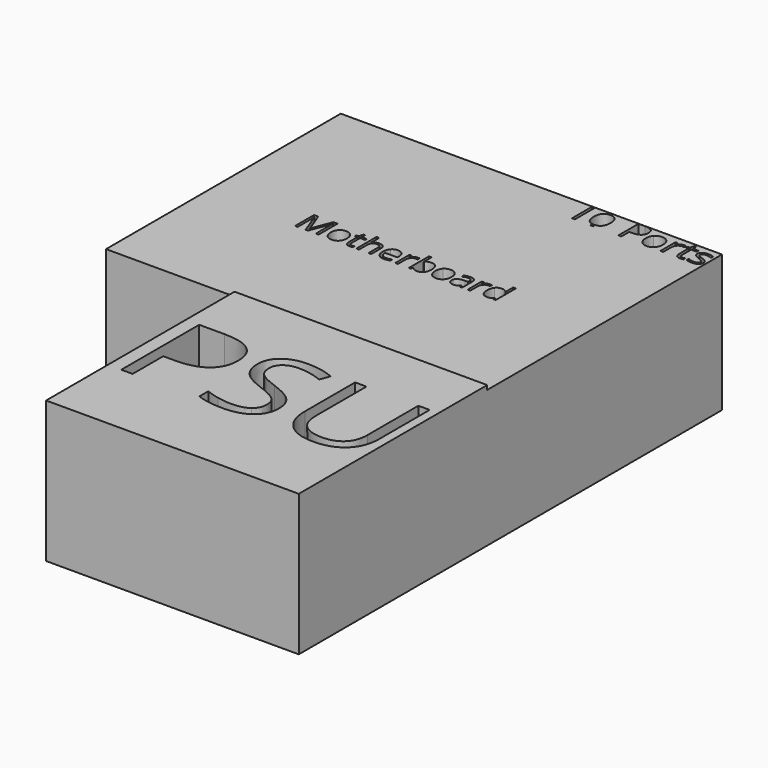
from build123d import *

# Parameters (mm, degrees)
F1_W     = 149.86
F1_H     = 139.7
F2_DEPTH = 83.82
F3_DEPTH = 81.28


with BuildPart() as f2:
    # F1 (on Top) → F2 (new body)
    with BuildSketch(Plane.XY):
        with Locations((38.1, -156.845)):
            Rectangle(F1_W, F1_H)
        with BuildLine():
            add(Edge.make_bspline(
                [(-13.9194527363, -123.1223521496), (7.7147761194, -123.1223521496), (7.7147761194, -139.9419541397)],
                knots=[0, 0, 0, 1, 1, 1], degree=2))
            add(Edge.make_bspline(
                [(7.7147761194, -139.9419541397), (7.7147761194, -148.7119043884), (1.7312437811, -153.4317551347)],
                knots=[0, 0, 0, 1, 1, 1], degree=2))
            add(Edge.make_bspline(
                [(1.7312437811, -153.4317551347), (-4.2522885572, -158.151605881), (-15.3853233831, -158.151605881)],
                knots=[0, 0, 0, 1, 1, 1], degree=2))
            Line((-15.3853233831, -158.151605881), (-22.1839303483, -158.151605881))
            Line((-22.1839303483, -158.151605881), (-22.1839303483, -180.8599640899))
            Line((-22.1839303483, -180.8599640899), (-28.894079602, -180.8599640899))
            Line((-28.894079602, -180.8599640899), (-28.894079602, -123.1223521496))
            Line((-28.894079602, -123.1223521496), (-13.9194527363, -123.1223521496))
        make_face(mode=Mode.SUBTRACT)
        with BuildLine():
            add(Edge.make_bspline(
                [(48.9613432836, -155.8643421994), (52.3732835821, -159.57956608), (52.3732835821, -165.4935959307)],
                knots=[0, 0, 0, 1, 1, 1], degree=2))
            add(Edge.make_bspline(
                [(52.3732835821, -165.4935959307), (52.3732835821, -173.1135959307), (46.8446766169, -177.3848397118)],
                knots=[0, 0, 0, 1, 1, 1], degree=2))
            add(Edge.make_bspline(
                [(46.8446766169, -177.3848397118), (41.3160696517, -181.6560834929), (31.8384577114, -181.6560834929)],
                knots=[0, 0, 0, 1, 1, 1], degree=2))
            add(Edge.make_bspline(
                [(31.8384577114, -181.6560834929), (21.5773631841, -181.6560834929), (16.0424378109, -179.0023521496)],
                knots=[0, 0, 0, 1, 1, 1], degree=2))
            Line((16.0424378109, -179.0023521496), (16.0424378109, -172.5323023984))
            add(Edge.make_bspline(
                [(16.0424378109, -172.5323023984), (19.6060199005, -174.023446677), (23.7888059701, -174.8953869755)],
                knots=[0, 0, 0, 1, 1, 1], degree=2))
            add(Edge.make_bspline(
                [(23.7888059701, -174.8953869755), (27.9715920398, -175.767327274), (32.0785572139, -175.767327274)],
                knots=[0, 0, 0, 1, 1, 1], degree=2))
            add(Edge.make_bspline(
                [(32.0785572139, -175.767327274), (38.7887064677, -175.767327274), (42.1880099502, -173.221008866)],
                knots=[0, 0, 0, 1, 1, 1], degree=2))
            add(Edge.make_bspline(
                [(42.1880099502, -173.221008866), (45.5873134328, -170.6746904581), (45.5873134328, -166.1254367267)],
                knots=[0, 0, 0, 1, 1, 1], degree=2))
            add(Edge.make_bspline(
                [(45.5873134328, -166.1254367267), (45.5873134328, -163.1305113536), (44.3804975124, -161.2160337417)],
                knots=[0, 0, 0, 1, 1, 1], degree=2))
            add(Edge.make_bspline(
                [(44.3804975124, -161.2160337417), (43.173681592, -159.3015561297), (40.3493532338, -157.6777252839)],
                knots=[0, 0, 0, 1, 1, 1], degree=2))
            add(Edge.make_bspline(
                [(40.3493532338, -157.6777252839), (37.5250248756, -156.0538944382), (31.7626368159, -154.0067302591)],
                knots=[0, 0, 0, 1, 1, 1], degree=2))
            add(Edge.make_bspline(
                [(31.7626368159, -154.0067302591), (23.7129850746, -151.1255362292), (20.2568159204, -147.1765312541)],
                knots=[0, 0, 0, 1, 1, 1], degree=2))
            add(Edge.make_bspline(
                [(20.2568159204, -147.1765312541), (16.8006467662, -143.227526279), (16.8006467662, -136.871207871)],
                knots=[0, 0, 0, 1, 1, 1], degree=2))
            add(Edge.make_bspline(
                [(16.8006467662, -136.871207871), (16.8006467662, -130.198969065), (21.8111442786, -126.2499640899)],
                knots=[0, 0, 0, 1, 1, 1], degree=2))
            add(Edge.make_bspline(
                [(21.8111442786, -126.2499640899), (26.821641791, -122.3009591148), (35.086119403, -122.3009591148)],
                knots=[0, 0, 0, 1, 1, 1], degree=2))
            add(Edge.make_bspline(
                [(35.086119403, -122.3009591148), (43.6917910448, -122.3009591148), (50.9200497512, -125.4601630949)],
                knots=[0, 0, 0, 1, 1, 1], degree=2))
            Line((50.9200497512, -125.4601630949), (48.8223383085, -131.2983720501))
            add(Edge.make_bspline(
                [(48.8223383085, -131.2983720501), (41.6699004975, -128.303446677), (34.921840796, -128.303446677)],
                knots=[0, 0, 0, 1, 1, 1], degree=2))
            add(Edge.make_bspline(
                [(34.921840796, -128.303446677), (29.5891044776, -128.303446677), (26.5878606965, -130.5907103586)],
                knots=[0, 0, 0, 1, 1, 1], degree=2))
            add(Edge.make_bspline(
                [(26.5878606965, -130.5907103586), (23.5866169154, -132.8779740402), (23.5866169154, -136.9470287665)],
                knots=[0, 0, 0, 1, 1, 1], degree=2))
            add(Edge.make_bspline(
                [(23.5866169154, -136.9470287665), (23.5866169154, -139.9419541397), (24.6923383085, -141.8627501596)],
                knots=[0, 0, 0, 1, 1, 1], degree=2))
            add(Edge.make_bspline(
                [(24.6923383085, -141.8627501596), (25.7980597015, -143.7835461795), (28.4265174129, -145.3821033934)],
                knots=[0, 0, 0, 1, 1, 1], degree=2))
            add(Edge.make_bspline(
                [(28.4265174129, -145.3821033934), (31.0549751244, -146.9806606073), (36.4635323383, -148.9140934431)],
                knots=[0, 0, 0, 1, 1, 1], degree=2))
            add(Edge.make_bspline(
                [(36.4635323383, -148.9140934431), (45.5494029851, -152.1491183188), (48.9613432836, -155.8643421994)],
                knots=[0, 0, 0, 1, 1, 1], degree=2))
        make_face(mode=Mode.SUBTRACT)
        with BuildLine():
            Line((101.0755721393, -123.1223521496), (107.785721393, -123.1223521496))
            Line((107.785721393, -123.1223521496), (107.785721393, -160.4767800103))
            add(Edge.make_bspline(
                [(107.785721393, -160.4767800103), (107.785721393, -170.3587700601), (101.8211442786, -176.0074267765)],
                knots=[0, 0, 0, 1, 1, 1], degree=2))
            add(Edge.make_bspline(
                [(101.8211442786, -176.0074267765), (95.8565671642, -181.6560834929), (85.4311940299, -181.6560834929)],
                knots=[0, 0, 0, 1, 1, 1], degree=2))
            add(Edge.make_bspline(
                [(85.4311940299, -181.6560834929), (75.0058208955, -181.6560834929), (69.3002985075, -175.9631979208)],
                knots=[0, 0, 0, 1, 1, 1], degree=2))
            add(Edge.make_bspline(
                [(69.3002985075, -175.9631979208), (63.5947761194, -170.2703123486), (63.5947761194, -160.3251382193)],
                knots=[0, 0, 0, 1, 1, 1], degree=2))
            Line((63.5947761194, -160.3251382193), (63.5947761194, -123.1223521496))
            Line((63.5947761194, -123.1223521496), (70.3175621891, -123.1223521496))
            Line((70.3175621891, -123.1223521496), (70.3175621891, -160.7927004083))
            add(Edge.make_bspline(
                [(70.3175621891, -160.7927004083), (70.3175621891, -168.0209591148), (74.2665671642, -171.8941431944)],
                knots=[0, 0, 0, 1, 1, 1], degree=2))
            add(Edge.make_bspline(
                [(74.2665671642, -171.8941431944), (78.2155721393, -175.767327274), (85.8734825871, -175.767327274)],
                knots=[0, 0, 0, 1, 1, 1], degree=2))
            add(Edge.make_bspline(
                [(85.8734825871, -175.767327274), (93.1775621891, -175.767327274), (97.1265671642, -171.8751879705)],
                knots=[0, 0, 0, 1, 1, 1], degree=2))
            add(Edge.make_bspline(
                [(97.1265671642, -171.8751879705), (101.0755721393, -167.983048667), (101.0755721393, -160.7168795128)],
                knots=[0, 0, 0, 1, 1, 1], degree=2))
            Line((101.0755721393, -160.7168795128), (101.0755721393, -123.1223521496))
        make_face(mode=Mode.SUBTRACT)
    extrude(amount=F2_DEPTH)

    # F0 (on Top) → F3 (join)
    with BuildSketch(Plane.XY):
        with BuildLine():
            Line((34.1019706592, 86.995), (-113.03, 86.995))
            Line((-113.03, 86.995), (-113.03, -86.995))
            Line((-113.03, -86.995), (113.03, -86.995))
            Line((113.03, -86.995), (113.03, 71.963575004))
            Line((113.03, 71.963575004), (109.0950362938, 71.963575004))
            add(Edge.make_bspline(
                [(109.0950362938, 71.963575004), (108.2880313485, 71.7580672404), (107.2529484228, 71.7580672404)],
                knots=[0.5072784088, 0.5072784088, 0.5072784088, 1, 1, 1], degree=2))
            add(Edge.make_bspline(
                [(107.2529484228, 71.7580672404), (106.0532331301, 71.7580672404), (105.138945287, 71.963575004)],
                knots=[0, 0, 0, 0.5400617249, 0.5400617249, 0.5400617249], degree=2))
            Line((105.138945287, 71.963575004), (101.9664084184, 71.963575004))
            add(Edge.make_bspline(
                [(101.9664084184, 71.963575004), (101.742886509, 71.8976161883), (101.4302284536, 71.8461419962)],
                knots=[0.4155624782, 0.4155624782, 0.4155624782, 1, 1, 1], degree=2))
            add(Edge.make_bspline(
                [(101.4302284536, 71.8461419962), (100.8952558626, 71.7580672404), (100.4646681674, 71.7580672404)],
                knots=[0, 0, 0, 1, 1, 1], degree=2))
            add(Edge.make_bspline(
                [(100.4646681674, 71.7580672404), (99.6700950527, 71.7580672404), (99.0704304474, 71.963575004)],
                knots=[0, 0, 0, 0.245299653, 0.245299653, 0.245299653], degree=2))
            Line((99.0704304474, 71.963575004), (90.2708306864, 71.963575004))
            Line((90.2708306864, 71.963575004), (88.5778381576, 71.963575004))
            Line((88.5778381576, 71.963575004), (82.0678466769, 71.963575004))
            add(Edge.make_bspline(
                [(82.0678466769, 71.963575004), (81.3206321924, 71.7580672404), (80.4325542568, 71.7580672404)],
                knots=[0.6340763655, 0.6340763655, 0.6340763655, 1, 1, 1], degree=2))
            add(Edge.make_bspline(
                [(80.4325542568, 71.7580672404), (79.6221738829, 71.7580672404), (78.9107416915, 71.963575004)],
                knots=[0, 0, 0, 0.5400617249, 0.5400617249, 0.5400617249], degree=2))
            Line((78.9107416915, 71.963575004), (65.3848191208, 71.963575004))
            Line((65.3848191208, 71.963575004), (63.6526822561, 71.963575004))
            Line((63.6526822561, 71.963575004), (49.9641525445, 71.963575004))
            add(Edge.make_bspline(
                [(49.9641525445, 71.963575004), (49.0860604893, 71.7580672404), (48.0667125011, 71.7580672404)],
                knots=[0.6833950988, 0.6833950988, 0.6833950988, 1, 1, 1], degree=2))
            add(Edge.make_bspline(
                [(48.0667125011, 71.7580672404), (47.0154028683, 71.7580672404), (46.1173504422, 71.963575004)],
                knots=[0, 0, 0, 0.319412416, 0.319412416, 0.319412416], degree=2))
            Line((46.1173504422, 71.963575004), (37.8826611041, 71.963575004))
            Line((37.8826611041, 71.963575004), (36.1505242393, 71.963575004))
            Line((36.1505242393, 71.963575004), (34.1019706592, 71.963575004))
            Line((34.1019706592, 71.963575004), (34.1019706592, 86.995))
        make_face()
        with BuildLine():
            Line((-51.6299568796, -14.1504098793), (-52.9442744639, -14.1504098793))
            Line((-52.9442744639, -14.1504098793), (-57.7040694537, -1.7135261963))
            Line((-57.7040694537, -1.7135261963), (-57.7808403406, -1.7135261963))
            add(Edge.make_bspline(
                [(-57.7808403406, -1.7135261963), (-57.6457235796, -3.1905980609), (-57.6457235796, -5.2265619823)],
                knots=[0, 0, 0, 1, 1, 1], degree=2))
            Line((-57.6457235796, -5.2265619823), (-57.6457235796, -14.1504098793))
            Line((-57.6457235796, -14.1504098793), (-59.1535037989, -14.1504098793))
            Line((-59.1535037989, -14.1504098793), (-59.1535037989, -0.1197625836))
            Line((-59.1535037989, -0.1197625836), (-56.6968354171, -0.1197625836))
            Line((-56.6968354171, -0.1197625836), (-52.2533364815, -11.6937414975))
            Line((-52.2533364815, -11.6937414975), (-52.1765655946, -11.6937414975))
            Line((-52.1765655946, -11.6937414975), (-47.6962166332, -0.1197625836))
            Line((-47.6962166332, -0.1197625836), (-45.2579732642, -0.1197625836))
            Line((-45.2579732642, -0.1197625836), (-45.2579732642, -14.1504098793))
            Line((-45.2579732642, -14.1504098793), (-46.8885869027, -14.1504098793))
            Line((-46.8885869027, -14.1504098793), (-46.8885869027, -5.1098702342))
            add(Edge.make_bspline(
                [(-46.8885869027, -5.1098702342), (-46.8885869027, -3.5560274827), (-46.7534701417, -1.7319512092)],
                knots=[0, 0, 0, 1, 1, 1], degree=2))
            Line((-46.7534701417, -1.7319512092), (-46.8302410286, -1.7319512092))
            Line((-46.8302410286, -1.7319512092), (-51.6299568796, -14.1504098793))
        make_face(mode=Mode.SUBTRACT)
        with BuildLine():
            add(Edge.make_bspline(
                [(-33.8728507322, -4.9087305104), (-32.5723519076, -6.3781252863), (-32.5723519076, -8.8808562003)],
                knots=[0, 0, 0, 1, 1, 1], degree=2))
            add(Edge.make_bspline(
                [(-32.5723519076, -8.8808562003), (-32.5723519076, -11.4542163303), (-33.8667090612, -12.8990444223)],
                knots=[0, 0, 0, 1, 1, 1], degree=2))
            add(Edge.make_bspline(
                [(-33.8667090612, -12.8990444223), (-35.1610662149, -14.3438725144), (-37.44576781, -14.3438725144)],
                knots=[0, 0, 0, 1, 1, 1], degree=2))
            add(Edge.make_bspline(
                [(-37.44576781, -14.3438725144), (-38.8583521296, -14.3438725144), (-39.9515695595, -13.6805720513)],
                knots=[0, 0, 0, 1, 1, 1], degree=2))
            add(Edge.make_bspline(
                [(-39.9515695595, -13.6805720513), (-41.0447869894, -13.0172715882), (-41.640529072, -11.7797248909)],
                knots=[0, 0, 0, 1, 1, 1], degree=2))
            add(Edge.make_bspline(
                [(-41.640529072, -11.7797248909), (-42.2362711546, -10.5421781935), (-42.2362711546, -8.8808562003)],
                knots=[0, 0, 0, 1, 1, 1], degree=2))
            add(Edge.make_bspline(
                [(-42.2362711546, -8.8808562003), (-42.2362711546, -6.3105669058), (-40.9495910896, -4.8749513202)],
                knots=[0, 0, 0, 1, 1, 1], degree=2))
            add(Edge.make_bspline(
                [(-40.9495910896, -4.8749513202), (-39.6629110246, -3.4393357346), (-37.3782094295, -3.4393357346)],
                knots=[0, 0, 0, 1, 1, 1], degree=2))
            add(Edge.make_bspline(
                [(-37.3782094295, -3.4393357346), (-35.1733495568, -3.4393357346), (-33.8728507322, -4.9087305104)],
                knots=[0, 0, 0, 1, 1, 1], degree=2))
        make_face(mode=Mode.SUBTRACT)
        with BuildLine():
            add(Edge.make_bspline(
                [(-27.6190942827, -12.5182608232), (-27.1676814675, -13.0264840946), (-26.3815475854, -13.0264840946)],
                knots=[0, 0, 0, 1, 1, 1], degree=2))
            add(Edge.make_bspline(
                [(-26.3815475854, -13.0264840946), (-25.9577722895, -13.0264840946), (-25.5647053484, -12.9650673851)],
                knots=[0, 0, 0, 1, 1, 1], degree=2))
            add(Edge.make_bspline(
                [(-25.5647053484, -12.9650673851), (-25.1716384073, -12.9036506756), (-24.9413257465, -12.8360922951)],
                knots=[0, 0, 0, 1, 1, 1], degree=2))
            Line((-24.9413257465, -12.8360922951), (-24.9413257465, -14.0552139795))
            add(Edge.make_bspline(
                [(-24.9413257465, -14.0552139795), (-25.1992759266, -14.1780473986), (-25.7028929449, -14.2609599565)],
                knots=[0, 0, 0, 1, 1, 1], degree=2))
            add(Edge.make_bspline(
                [(-25.7028929449, -14.2609599565), (-26.2065099632, -14.3438725144), (-26.6118602462, -14.3438725144)],
                knots=[0, 0, 0, 1, 1, 1], degree=2))
            add(Edge.make_bspline(
                [(-26.6118602462, -14.3438725144), (-29.6611998751, -14.3438725144), (-29.6611998751, -11.1287077697)],
                knots=[0, 0, 0, 1, 1, 1], degree=2))
            Line((-29.6611998751, -11.1287077697), (-29.6611998751, -4.870345067))
            Line((-29.6611998751, -4.870345067), (-31.1689800944, -4.870345067))
            Line((-31.1689800944, -4.870345067), (-31.1689800944, -4.1026361977))
            Line((-31.1689800944, -4.1026361977), (-29.6611998751, -3.4393357346))
            Line((-29.6611998751, -3.4393357346), (-28.9917577411, -1.1945550007))
            Line((-28.9917577411, -1.1945550007), (-28.0705070979, -1.1945550007))
            Line((-28.0705070979, -1.1945550007), (-28.0705070979, -3.6327983696))
            Line((-28.0705070979, -3.6327983696), (-25.0180966334, -3.6327983696))
            Line((-25.0180966334, -3.6327983696), (-25.0180966334, -4.870345067))
            Line((-25.0180966334, -4.870345067), (-28.0705070979, -4.870345067))
            Line((-28.0705070979, -4.870345067), (-28.0705070979, -11.0611493892))
            add(Edge.make_bspline(
                [(-28.0705070979, -11.0611493892), (-28.0705070979, -12.0100375517), (-27.6190942827, -12.5182608232)],
                knots=[0, 0, 0, 1, 1, 1], degree=2))
        make_face(mode=Mode.SUBTRACT)
        with BuildLine():
            Line((-14.0490723086, -14.1504098793), (-15.6428359213, -14.1504098793))
            Line((-15.6428359213, -14.1504098793), (-15.6428359213, -7.3454384617))
            add(Edge.make_bspline(
                [(-15.6428359213, -7.3454384617), (-15.6428359213, -6.0618292322), (-16.2278300797, -5.4277017061)],
                knots=[0, 0, 0, 1, 1, 1], degree=2))
            add(Edge.make_bspline(
                [(-16.2278300797, -5.4277017061), (-16.8128242381, -4.79357418), (-18.0626542774, -4.79357418)],
                knots=[0, 0, 0, 1, 1, 1], degree=2))
            add(Edge.make_bspline(
                [(-18.0626542774, -4.79357418), (-19.7209054351, -4.79357418), (-20.4840080512, -5.6963998104)],
                knots=[0, 0, 0, 1, 1, 1], degree=2))
            add(Edge.make_bspline(
                [(-20.4840080512, -5.6963998104), (-21.2471106673, -6.5992254407), (-21.2471106673, -8.6505435395)],
                knots=[0, 0, 0, 1, 1, 1], degree=2))
            Line((-21.2471106673, -8.6505435395), (-21.2471106673, -14.1504098793))
            Line((-21.2471106673, -14.1504098793), (-22.84087428, -14.1504098793))
            Line((-22.84087428, -14.1504098793), (-22.84087428, 0.7830630467))
            Line((-22.84087428, 0.7830630467), (-21.2471106673, 0.7830630467))
            Line((-21.2471106673, 0.7830630467), (-21.2471106673, -3.7372067759))
            add(Edge.make_bspline(
                [(-21.2471106673, -3.7372067759), (-21.2471106673, -4.5540490128), (-21.3238815543, -5.0914452213)],
                knots=[0, 0, 0, 1, 1, 1], degree=2))
            Line((-21.3238815543, -5.0914452213), (-21.2286856545, -5.0914452213))
            add(Edge.make_bspline(
                [(-21.2286856545, -5.0914452213), (-20.7588478264, -4.3329488584), (-19.8898013864, -3.8968902207)],
                knots=[0, 0, 0, 1, 1, 1], degree=2))
            add(Edge.make_bspline(
                [(-19.8898013864, -3.8968902207), (-19.0207549463, -3.4608315829), (-17.9091125035, -3.4608315829)],
                knots=[0, 0, 0, 1, 1, 1], degree=2))
            add(Edge.make_bspline(
                [(-17.9091125035, -3.4608315829), (-15.9806278238, -3.4608315829), (-15.0148500662, -4.3774759729)],
                knots=[0, 0, 0, 1, 1, 1], degree=2))
            add(Edge.make_bspline(
                [(-15.0148500662, -4.3774759729), (-14.0490723086, -5.2941203628), (-14.0490723086, -7.2901634231)],
                knots=[0, 0, 0, 1, 1, 1], degree=2))
            Line((-14.0490723086, -7.2901634231), (-14.0490723086, -14.1504098793))
        make_face(mode=Mode.SUBTRACT)
        with BuildLine():
            add(Edge.make_bspline(
                [(-4.5171989871, -14.1841890696), (-5.269553679, -14.3438725144), (-6.3351335896, -14.3438725144)],
                knots=[0, 0, 0, 1, 1, 1], degree=2))
            add(Edge.make_bspline(
                [(-6.3351335896, -14.3438725144), (-8.6658977169, -14.3438725144), (-10.0155299092, -12.9220756884)],
                knots=[0, 0, 0, 1, 1, 1], degree=2))
            add(Edge.make_bspline(
                [(-10.0155299092, -12.9220756884), (-11.3651621014, -11.5002788624), (-11.3651621014, -8.9791229356)],
                knots=[0, 0, 0, 1, 1, 1], degree=2))
            add(Edge.make_bspline(
                [(-11.3651621014, -8.9791229356), (-11.3651621014, -6.4334003249), (-10.1122612267, -4.9363680297)],
                knots=[0, 0, 0, 1, 1, 1], degree=2))
            add(Edge.make_bspline(
                [(-10.1122612267, -4.9363680297), (-8.859360352, -3.4393357346), (-6.7466255436, -3.4393357346)],
                knots=[0, 0, 0, 1, 1, 1], degree=2))
            add(Edge.make_bspline(
                [(-6.7466255436, -3.4393357346), (-4.7720783317, -3.4393357346), (-3.6205150277, -4.7398345592)],
                knots=[0, 0, 0, 1, 1, 1], degree=2))
            add(Edge.make_bspline(
                [(-3.6205150277, -4.7398345592), (-2.4689517237, -6.0403333838), (-2.4689517237, -8.1714932051)],
                knots=[0, 0, 0, 1, 1, 1], degree=2))
            Line((-2.4689517237, -8.1714932051), (-2.4689517237, -9.1787272416))
            Line((-2.4689517237, -9.1787272416), (-9.7130526147, -9.1787272416))
            add(Edge.make_bspline(
                [(-9.7130526147, -9.1787272416), (-9.663919247, -11.0304410344), (-8.7764477941, -11.9900771211)],
                knots=[0, 0, 0, 1, 1, 1], degree=2))
            add(Edge.make_bspline(
                [(-8.7764477941, -11.9900771211), (-7.8889763411, -12.9497132077), (-6.2767877156, -12.9497132077)],
                knots=[0, 0, 0, 1, 1, 1], degree=2))
            add(Edge.make_bspline(
                [(-6.2767877156, -12.9497132077), (-4.5786156966, -12.9497132077), (-2.9203645389, -12.2403502125)],
                knots=[0, 0, 0, 1, 1, 1], degree=2))
            Line((-2.9203645389, -12.2403502125), (-2.9203645389, -13.6621470384))
            add(Edge.make_bspline(
                [(-2.9203645389, -13.6621470384), (-3.7648442952, -14.0245056248), (-4.5171989871, -14.1841890696)],
                knots=[0, 0, 0, 1, 1, 1], degree=2))
        make_face(mode=Mode.SUBTRACT)
        with BuildLine():
            add(Edge.make_bspline(
                [(3.2335897576, -3.9966923737), (4.059644501, -3.4393357346), (5.0484535247, -3.4393357346)],
                knots=[0, 0, 0, 1, 1, 1], degree=2))
            add(Edge.make_bspline(
                [(5.0484535247, -3.4393357346), (5.7486040135, -3.4393357346), (6.3044252349, -3.5560274827)],
                knots=[0, 0, 0, 1, 1, 1], degree=2))
            Line((6.3044252349, -3.5560274827), (6.0833250805, -5.0330993473))
            add(Edge.make_bspline(
                [(6.0833250805, -5.0330993473), (5.4323079593, -4.8887700798), (4.9317617765, -4.8887700798)],
                knots=[0, 0, 0, 1, 1, 1], degree=2))
            add(Edge.make_bspline(
                [(4.9317617765, -4.8887700798), (3.654294218, -4.8887700798), (2.7483977522, -5.9251770534)],
                knots=[0, 0, 0, 1, 1, 1], degree=2))
            add(Edge.make_bspline(
                [(2.7483977522, -5.9251770534), (1.8425012864, -6.961584027), (1.8425012864, -8.5062142721)],
                knots=[0, 0, 0, 1, 1, 1], degree=2))
            Line((1.8425012864, -8.5062142721), (1.8425012864, -14.1504098793))
            Line((1.8425012864, -14.1504098793), (0.2487376737, -14.1504098793))
            Line((0.2487376737, -14.1504098793), (0.2487376737, -3.6327983696))
            Line((0.2487376737, -3.6327983696), (1.5630552579, -3.6327983696))
            Line((1.5630552579, -3.6327983696), (1.7473053866, -5.5797080622))
            Line((1.7473053866, -5.5797080622), (1.8240762735, -5.5797080622))
            add(Edge.make_bspline(
                [(1.8240762735, -5.5797080622), (2.4075350142, -4.5540490128), (3.2335897576, -3.9966923737)],
                knots=[0, 0, 0, 1, 1, 1], degree=2))
        make_face(mode=Mode.SUBTRACT)
        with BuildLine():
            add(Edge.make_bspline(
                [(9.8665943885, -5.0330993473), (10.9782368313, -3.4608315829), (13.1677425266, -3.4608315829)],
                knots=[0, 0, 0, 1, 1, 1], degree=2))
            add(Edge.make_bspline(
                [(13.1677425266, -3.4608315829), (15.2405564738, -3.4608315829), (16.3875135245, -4.8764867379)],
                knots=[0, 0, 0, 1, 1, 1], degree=2))
            add(Edge.make_bspline(
                [(16.3875135245, -4.8764867379), (17.5344705753, -6.292141893), (17.5344705753, -8.8808562003)],
                knots=[0, 0, 0, 1, 1, 1], degree=2))
            add(Edge.make_bspline(
                [(17.5344705753, -8.8808562003), (17.5344705753, -11.4726413431), (16.3783010181, -12.9082569288)],
                knots=[0, 0, 0, 1, 1, 1], degree=2))
            add(Edge.make_bspline(
                [(16.3783010181, -12.9082569288), (15.2221314609, -14.3438725144), (13.1677425266, -14.3438725144)],
                knots=[0, 0, 0, 1, 1, 1], degree=2))
            add(Edge.make_bspline(
                [(13.1677425266, -14.3438725144), (12.1390126417, -14.3438725144), (11.2899266322, -13.964624333)],
                knots=[0, 0, 0, 1, 1, 1], degree=2))
            add(Edge.make_bspline(
                [(11.2899266322, -13.964624333), (10.4408406228, -13.5853761515), (9.8665943885, -12.7961714338)],
                knots=[0, 0, 0, 1, 1, 1], degree=2))
            Line((9.8665943885, -12.7961714338), (9.7499026404, -12.7961714338))
            Line((9.7499026404, -12.7961714338), (9.4151815734, -14.1504098793))
            Line((9.4151815734, -14.1504098793), (8.2728307758, -14.1504098793))
            Line((8.2728307758, -14.1504098793), (8.2728307758, 0.7830630467))
            Line((8.2728307758, 0.7830630467), (9.8665943885, 0.7830630467))
            Line((9.8665943885, 0.7830630467), (9.8665943885, -2.8466644874))
            add(Edge.make_bspline(
                [(9.8665943885, -2.8466644874), (9.8665943885, -4.0657861719), (9.7898235016, -5.0330993473)],
                knots=[0, 0, 0, 1, 1, 1], degree=2))
            Line((9.7898235016, -5.0330993473), (9.8665943885, -5.0330993473))
        make_face(mode=Mode.SUBTRACT)
        with BuildLine():
            add(Edge.make_bspline(
                [(28.0935383639, -4.9087305104), (29.3940371886, -6.3781252863), (29.3940371886, -8.8808562003)],
                knots=[0, 0, 0, 1, 1, 1], degree=2))
            add(Edge.make_bspline(
                [(29.3940371886, -8.8808562003), (29.3940371886, -11.4542163303), (28.0996800349, -12.8990444223)],
                knots=[0, 0, 0, 1, 1, 1], degree=2))
            add(Edge.make_bspline(
                [(28.0996800349, -12.8990444223), (26.8053228812, -14.3438725144), (24.5206212861, -14.3438725144)],
                knots=[0, 0, 0, 1, 1, 1], degree=2))
            add(Edge.make_bspline(
                [(24.5206212861, -14.3438725144), (23.1080369666, -14.3438725144), (22.0148195367, -13.6805720513)],
                knots=[0, 0, 0, 1, 1, 1], degree=2))
            add(Edge.make_bspline(
                [(22.0148195367, -13.6805720513), (20.9216021067, -13.0172715882), (20.3258600242, -11.7797248909)],
                knots=[0, 0, 0, 1, 1, 1], degree=2))
            add(Edge.make_bspline(
                [(20.3258600242, -11.7797248909), (19.7301179416, -10.5421781935), (19.7301179416, -8.8808562003)],
                knots=[0, 0, 0, 1, 1, 1], degree=2))
            add(Edge.make_bspline(
                [(19.7301179416, -8.8808562003), (19.7301179416, -6.3105669058), (21.0167980065, -4.8749513202)],
                knots=[0, 0, 0, 1, 1, 1], degree=2))
            add(Edge.make_bspline(
                [(21.0167980065, -4.8749513202), (22.3034780715, -3.4393357346), (24.5881796666, -3.4393357346)],
                knots=[0, 0, 0, 1, 1, 1], degree=2))
            add(Edge.make_bspline(
                [(24.5881796666, -3.4393357346), (26.7930395393, -3.4393357346), (28.0935383639, -4.9087305104)],
                knots=[0, 0, 0, 1, 1, 1], degree=2))
        make_face(mode=Mode.SUBTRACT)
        with BuildLine():
            Line((39.8379486468, -14.1504098793), (38.6556769881, -14.1504098793))
            Line((38.6556769881, -14.1504098793), (38.3393809339, -12.6518421664))
            Line((38.3393809339, -12.6518421664), (38.262610047, -12.6518421664))
            add(Edge.make_bspline(
                [(38.262610047, -12.6518421664), (37.4764761648, -13.6406511901), (36.6949485358, -13.9922618523)],
                knots=[0, 0, 0, 1, 1, 1], degree=2))
            add(Edge.make_bspline(
                [(36.6949485358, -13.9922618523), (35.9134209069, -14.3438725144), (34.7403617545, -14.3438725144)],
                knots=[0, 0, 0, 1, 1, 1], degree=2))
            add(Edge.make_bspline(
                [(34.7403617545, -14.3438725144), (33.1773064966, -14.3438725144), (32.2898350437, -13.5362427839)],
                knots=[0, 0, 0, 1, 1, 1], degree=2))
            add(Edge.make_bspline(
                [(32.2898350437, -13.5362427839), (31.4023635907, -12.7286130533), (31.4023635907, -11.2423286823)],
                knots=[0, 0, 0, 1, 1, 1], degree=2))
            add(Edge.make_bspline(
                [(31.4023635907, -11.2423286823), (31.4023635907, -8.0578722924), (36.4968796475, -7.9043305185)],
                knots=[0, 0, 0, 1, 1, 1], degree=2))
            Line((36.4968796475, -7.9043305185), (38.2810350598, -7.8459846445))
            Line((38.2810350598, -7.8459846445), (38.2810350598, -7.1918966878))
            add(Edge.make_bspline(
                [(38.2810350598, -7.1918966878), (38.2810350598, -5.9543499905), (37.7497805223, -5.3647495788)],
                knots=[0, 0, 0, 1, 1, 1], degree=2))
            add(Edge.make_bspline(
                [(37.7497805223, -5.3647495788), (37.2185259847, -4.7751491672), (36.0454668324, -4.7751491672)],
                knots=[0, 0, 0, 1, 1, 1], degree=2))
            add(Edge.make_bspline(
                [(36.0454668324, -4.7751491672), (34.7311492481, -4.7751491672), (33.0728980904, -5.5797080622)],
                knots=[0, 0, 0, 1, 1, 1], degree=2))
            Line((33.0728980904, -5.5797080622), (32.581564414, -4.3605863777))
            add(Edge.make_bspline(
                [(32.581564414, -4.3605863777), (33.3584857898, -3.9398819174), (34.2843426862, -3.7003567501)],
                knots=[0, 0, 0, 1, 1, 1], degree=2))
            add(Edge.make_bspline(
                [(34.2843426862, -3.7003567501), (35.2101995826, -3.4608315829), (36.1437335676, -3.4608315829)],
                knots=[0, 0, 0, 1, 1, 1], degree=2))
            add(Edge.make_bspline(
                [(36.1437335676, -3.4608315829), (38.0230848797, -3.4608315829), (38.9305167633, -4.294563415)],
                knots=[0, 0, 0, 1, 1, 1], degree=2))
            add(Edge.make_bspline(
                [(38.9305167633, -4.294563415), (39.8379486468, -5.1282952471), (39.8379486468, -6.9707965334)],
                knots=[0, 0, 0, 1, 1, 1], degree=2))
            Line((39.8379486468, -6.9707965334), (39.8379486468, -14.1504098793))
        make_face(mode=Mode.SUBTRACT)
        with BuildLine():
            add(Edge.make_bspline(
                [(46.1024530205, -3.9966923737), (46.9285077639, -3.4393357346), (47.9173167876, -3.4393357346)],
                knots=[0, 0, 0, 1, 1, 1], degree=2))
            add(Edge.make_bspline(
                [(47.9173167876, -3.4393357346), (48.6174672764, -3.4393357346), (49.1732884978, -3.5560274827)],
                knots=[0, 0, 0, 1, 1, 1], degree=2))
            Line((49.1732884978, -3.5560274827), (48.9521883434, -5.0330993473))
            add(Edge.make_bspline(
                [(48.9521883434, -5.0330993473), (48.3011712222, -4.8887700798), (47.8006250394, -4.8887700798)],
                knots=[0, 0, 0, 1, 1, 1], degree=2))
            add(Edge.make_bspline(
                [(47.8006250394, -4.8887700798), (46.5231574809, -4.8887700798), (45.6172610151, -5.9251770534)],
                knots=[0, 0, 0, 1, 1, 1], degree=2))
            add(Edge.make_bspline(
                [(45.6172610151, -5.9251770534), (44.7113645493, -6.961584027), (44.7113645493, -8.5062142721)],
                knots=[0, 0, 0, 1, 1, 1], degree=2))
            Line((44.7113645493, -8.5062142721), (44.7113645493, -14.1504098793))
            Line((44.7113645493, -14.1504098793), (43.1176009366, -14.1504098793))
            Line((43.1176009366, -14.1504098793), (43.1176009366, -3.6327983696))
            Line((43.1176009366, -3.6327983696), (44.4319185208, -3.6327983696))
            Line((44.4319185208, -3.6327983696), (44.6161686495, -5.5797080622))
            Line((44.6161686495, -5.5797080622), (44.6929395364, -5.5797080622))
            add(Edge.make_bspline(
                [(44.6929395364, -5.5797080622), (45.2763982771, -4.5540490128), (46.1024530205, -3.9966923737)],
                knots=[0, 0, 0, 1, 1, 1], degree=2))
        make_face(mode=Mode.SUBTRACT)
        with BuildLine():
            Line((58.5116991842, -14.1504098793), (58.2998115363, -12.7408963953))
            Line((58.2998115363, -12.7408963953), (58.2138281429, -12.7408963953))
            add(Edge.make_bspline(
                [(58.2138281429, -12.7408963953), (57.1113982066, -14.3438725144), (54.9126800048, -14.3438725144)],
                knots=[0, 0, 0, 1, 1, 1], degree=2))
            add(Edge.make_bspline(
                [(54.9126800048, -14.3438725144), (52.8490785641, -14.3438725144), (51.7021215133, -12.9328236126)],
                knots=[0, 0, 0, 1, 1, 1], degree=2))
            add(Edge.make_bspline(
                [(51.7021215133, -12.9328236126), (50.5551644625, -11.5217747108), (50.5551644625, -8.9207770615)],
                knots=[0, 0, 0, 1, 1, 1], degree=2))
            add(Edge.make_bspline(
                [(50.5551644625, -8.9207770615), (50.5551644625, -6.3197794123), (51.7067277665, -4.8795575734)],
                knots=[0, 0, 0, 1, 1, 1], degree=2))
            add(Edge.make_bspline(
                [(51.7067277665, -4.8795575734), (52.8582910705, -3.4393357346), (54.9126800048, -3.4393357346)],
                knots=[0, 0, 0, 1, 1, 1], degree=2))
            add(Edge.make_bspline(
                [(54.9126800048, -3.4393357346), (57.0530523325, -3.4393357346), (58.19540313, -4.9962493215)],
                knots=[0, 0, 0, 1, 1, 1], degree=2))
            Line((58.19540313, -4.9962493215), (58.3213073846, -4.9962493215))
            Line((58.3213073846, -4.9962493215), (58.2537490041, -4.2377529587))
            Line((58.2537490041, -4.2377529587), (58.2138281429, -3.4976816086))
            Line((58.2138281429, -3.4976816086), (58.2138281429, 0.7830630467))
            Line((58.2138281429, 0.7830630467), (59.8075917556, 0.7830630467))
            Line((59.8075917556, 0.7830630467), (59.8075917556, -14.1504098793))
            Line((59.8075917556, -14.1504098793), (58.5116991842, -14.1504098793))
        make_face(mode=Mode.SUBTRACT)
        with BuildLine():
            Line((46.6366501817, 86.995), (34.1019706592, 86.995))
            Line((34.1019706592, 86.995), (34.1019706592, 71.963575004))
            Line((34.1019706592, 71.963575004), (36.1505242393, 71.963575004))
            Line((36.1505242393, 71.963575004), (36.1505242393, 86.8677809082))
            Line((36.1505242393, 86.8677809082), (37.8826611041, 86.8677809082))
            Line((37.8826611041, 86.8677809082), (37.8826611041, 71.963575004))
            Line((37.8826611041, 71.963575004), (46.1173504422, 71.963575004))
            add(Edge.make_bspline(
                [(46.1173504422, 71.963575004), (44.2038264202, 72.4014604002), (42.9861039006, 73.7723695267)],
                knots=[0.319412416, 0.319412416, 0.319412416, 1, 1, 1], degree=2))
            add(Edge.make_bspline(
                [(42.9861039006, 73.7723695267), (41.1968815459, 75.7866718129), (41.1968815459, 79.4564533061)],
                knots=[0, 0, 0, 1, 1, 1], degree=2))
            add(Edge.make_bspline(
                [(41.1968815459, 79.4564533061), (41.1968815459, 83.0968765473), (42.9909969426, 85.0997617355)],
                knots=[0, 0, 0, 1, 1, 1], degree=2))
            add(Edge.make_bspline(
                [(42.9909969426, 85.0997617355), (44.3691795508, 86.6383146837), (46.6366501817, 86.995)],
                knots=[0, 0, 0, 0.7681683189, 0.7681683189, 0.7681683189], degree=2))
        make_face()
        with BuildLine():
            add(Edge.make_bspline(
                [(46.6366501817, 86.995), (47.3209683384, 87.1026469238), (48.0862846691, 87.1026469238)],
                knots=[0.7681683189, 0.7681683189, 0.7681683189, 1, 1, 1], degree=2))
            Line((46.6366501817, 86.995), (49.4885063396, 86.995))
            add(Edge.make_bspline(
                [(48.0862846691, 87.1026469238), (48.8245982812, 87.1026469238), (49.4885063396, 86.995)],
                knots=[0, 0, 0, 0.2297825059, 0.2297825059, 0.2297825059], degree=2))
        make_face()
        with BuildLine():
            Line((49.4885063396, 86.995), (46.6366501817, 86.995))
            add(Edge.make_bspline(
                [(42.9909969426, 85.0997617355), (44.3691795508, 86.6383146837), (46.6366501817, 86.995)],
                knots=[0, 0, 0, 0.7681683189, 0.7681683189, 0.7681683189], degree=2))
            add(Edge.make_bspline(
                [(41.1968815459, 79.4564533061), (41.1968815459, 83.0968765473), (42.9909969426, 85.0997617355)],
                knots=[0, 0, 0, 1, 1, 1], degree=2))
            add(Edge.make_bspline(
                [(42.9861039006, 73.7723695267), (41.1968815459, 75.7866718129), (41.1968815459, 79.4564533061)],
                knots=[0, 0, 0, 1, 1, 1], degree=2))
            add(Edge.make_bspline(
                [(46.1173504422, 71.963575004), (44.2038264202, 72.4014604002), (42.9861039006, 73.7723695267)],
                knots=[0.319412416, 0.319412416, 0.319412416, 1, 1, 1], degree=2))
            Line((46.1173504422, 71.963575004), (49.9641525445, 71.963575004))
            add(Edge.make_bspline(
                [(53.0967596677, 73.8082518346), (51.8595237293, 72.4071657314), (49.9641525445, 71.963575004)],
                knots=[0, 0, 0, 0.6833950988, 0.6833950988, 0.6833950988], degree=2))
            add(Edge.make_bspline(
                [(54.9071852044, 79.4368811381), (54.9071852044, 75.8584364288), (53.0967596677, 73.8082518346)],
                knots=[0, 0, 0, 1, 1, 1], degree=2))
            add(Edge.make_bspline(
                [(53.1032837237, 85.0638794276), (54.9071852044, 83.0251119314), (54.9071852044, 79.4368811381)],
                knots=[0, 0, 0, 1, 1, 1], degree=2))
            add(Edge.make_bspline(
                [(49.4885063396, 86.995), (51.7138872456, 86.6341738197), (53.1032837237, 85.0638794276)],
                knots=[0.2297825059, 0.2297825059, 0.2297825059, 1, 1, 1], degree=2))
        make_face()
        with BuildLine():
            add(Edge.make_bspline(
                [(43.0301412785, 79.4368811381), (43.0301412785, 76.4097191597), (44.3202733501, 74.8439457227)],
                knots=[0, 0, 0, 1, 1, 1], degree=2))
            add(Edge.make_bspline(
                [(44.3202733501, 83.9874101896), (43.0301412785, 82.4216367525), (43.0301412785, 79.4368811381)],
                knots=[0, 0, 0, 1, 1, 1], degree=2))
            add(Edge.make_bspline(
                [(48.0862846691, 85.5531836267), (45.6104054217, 85.5531836267), (44.3202733501, 83.9874101896)],
                knots=[0, 0, 0, 1, 1, 1], degree=2))
            add(Edge.make_bspline(
                [(51.8115206381, 83.9988272876), (50.5523778325, 85.5531836267), (48.0862846691, 85.5531836267)],
                knots=[0, 0, 0, 1, 1, 1], degree=2))
            add(Edge.make_bspline(
                [(53.0706634438, 79.4368811381), (53.0706634438, 82.4444709485), (51.8115206381, 83.9988272876)],
                knots=[0, 0, 0, 1, 1, 1], degree=2))
            add(Edge.make_bspline(
                [(51.8066275962, 74.8374216667), (53.0706634438, 76.3966710478), (53.0706634438, 79.4368811381)],
                knots=[0, 0, 0, 1, 1, 1], degree=2))
            add(Edge.make_bspline(
                [(48.0667125011, 73.2781722856), (50.5425917485, 73.2781722856), (51.8066275962, 74.8374216667)],
                knots=[0, 0, 0, 1, 1, 1], degree=2))
            add(Edge.make_bspline(
                [(44.3202733501, 74.8439457227), (45.6104054217, 73.2781722856), (48.0667125011, 73.2781722856)],
                knots=[0, 0, 0, 1, 1, 1], degree=2))
        make_face(mode=Mode.SUBTRACT)
        with BuildLine():
            Line((113.03, 86.995), (49.4885063396, 86.995))
            add(Edge.make_bspline(
                [(49.4885063396, 86.995), (51.7138872456, 86.6341738197), (53.1032837237, 85.0638794276)],
                knots=[0.2297825059, 0.2297825059, 0.2297825059, 1, 1, 1], degree=2))
            add(Edge.make_bspline(
                [(53.1032837237, 85.0638794276), (54.9071852044, 83.0251119314), (54.9071852044, 79.4368811381)],
                knots=[0, 0, 0, 1, 1, 1], degree=2))
            add(Edge.make_bspline(
                [(54.9071852044, 79.4368811381), (54.9071852044, 75.8584364288), (53.0967596677, 73.8082518346)],
                knots=[0, 0, 0, 1, 1, 1], degree=2))
            add(Edge.make_bspline(
                [(53.0967596677, 73.8082518346), (51.8595237293, 72.4071657314), (49.9641525445, 71.963575004)],
                knots=[0, 0, 0, 0.6833950988, 0.6833950988, 0.6833950988], degree=2))
            Line((49.9641525445, 71.963575004), (63.6526822561, 71.963575004))
            Line((63.6526822561, 71.963575004), (63.6526822561, 86.8677809082))
            Line((63.6526822561, 86.8677809082), (67.5181854289, 86.8677809082))
            add(Edge.make_bspline(
                [(67.5181854289, 86.8677809082), (73.1027773544, 86.8677809082), (73.1027773544, 82.5260216483)],
                knots=[0, 0, 0, 1, 1, 1], degree=2))
            add(Edge.make_bspline(
                [(73.1027773544, 82.5260216483), (73.1027773544, 80.2621742206), (71.5582070993, 79.0438067648)],
                knots=[0, 0, 0, 1, 1, 1], degree=2))
            add(Edge.make_bspline(
                [(71.5582070993, 79.0438067648), (70.0136368442, 77.8254393091), (67.1397901816, 77.8254393091)],
                knots=[0, 0, 0, 1, 1, 1], degree=2))
            Line((67.1397901816, 77.8254393091), (65.3848191208, 77.8254393091))
            Line((65.3848191208, 77.8254393091), (65.3848191208, 71.963575004))
            Line((65.3848191208, 71.963575004), (78.9107416915, 71.963575004))
            add(Edge.make_bspline(
                [(78.9107416915, 71.963575004), (78.3048574381, 72.1385936768), (77.7707394137, 72.4626652871)],
                knots=[0.5400617249, 0.5400617249, 0.5400617249, 1, 1, 1], degree=2))
            add(Edge.make_bspline(
                [(77.7707394137, 72.4626652871), (76.6094574479, 73.1672633338), (75.9766240171, 74.4818606153)],
                knots=[0, 0, 0, 1, 1, 1], degree=2))
            add(Edge.make_bspline(
                [(75.9766240171, 74.4818606153), (75.3437905863, 75.7964578969), (75.3437905863, 77.5612150416)],
                knots=[0, 0, 0, 1, 1, 1], degree=2))
            add(Edge.make_bspline(
                [(75.3437905863, 77.5612150416), (75.3437905863, 80.2915324725), (76.7105803157, 81.8165305597)],
                knots=[0, 0, 0, 1, 1, 1], degree=2))
            add(Edge.make_bspline(
                [(76.7105803157, 81.8165305597), (78.0773700452, 83.3415286468), (80.5043188726, 83.3415286468)],
                knots=[0, 0, 0, 1, 1, 1], degree=2))
            add(Edge.make_bspline(
                [(80.5043188726, 83.3415286468), (82.8464549723, 83.3415286468), (84.2279238277, 81.7806482517)],
                knots=[0, 0, 0, 1, 1, 1], degree=2))
            add(Edge.make_bspline(
                [(84.2279238277, 81.7806482517), (85.6093926831, 80.2197678566), (85.6093926831, 77.5612150416)],
                knots=[0, 0, 0, 1, 1, 1], degree=2))
            add(Edge.make_bspline(
                [(85.6093926831, 77.5612150416), (85.6093926831, 74.8276355827), (84.2344478837, 73.2928514115)],
                knots=[0, 0, 0, 1, 1, 1], degree=2))
            add(Edge.make_bspline(
                [(84.2344478837, 73.2928514115), (83.3626278825, 72.3196810425), (82.0678466769, 71.963575004)],
                knots=[0, 0, 0, 0.6340763655, 0.6340763655, 0.6340763655], degree=2))
            Line((82.0678466769, 71.963575004), (88.5778381576, 71.963575004))
            Line((88.5778381576, 71.963575004), (88.5778381576, 83.1360208832))
            Line((88.5778381576, 83.1360208832), (89.973986139, 83.1360208832))
            Line((89.973986139, 83.1360208832), (90.1697078186, 81.0678951351))
            Line((90.1697078186, 81.0678951351), (90.2512585185, 81.0678951351))
            add(Edge.make_bspline(
                [(90.2512585185, 81.0678951351), (90.8710438373, 82.157412485), (91.7485293677, 82.7494705659)],
                knots=[0, 0, 0, 1, 1, 1], degree=2))
            add(Edge.make_bspline(
                [(91.7485293677, 82.7494705659), (92.626014898, 83.3415286468), (93.6763879121, 83.3415286468)],
                knots=[0, 0, 0, 1, 1, 1], degree=2))
            add(Edge.make_bspline(
                [(93.6763879121, 83.3415286468), (94.4201302947, 83.3415286468), (95.0105573616, 83.217571583)],
                knots=[0, 0, 0, 1, 1, 1], degree=2))
            Line((95.0105573616, 83.217571583), (94.775691346, 81.648536118))
            add(Edge.make_bspline(
                [(94.775691346, 81.648536118), (94.0841414113, 81.8018514337), (93.5524308483, 81.8018514337)],
                knots=[0, 0, 0, 1, 1, 1], degree=2))
            add(Edge.make_bspline(
                [(93.5524308483, 81.8018514337), (92.1954272028, 81.8018514337), (91.2331289446, 80.7009169857)],
                knots=[0, 0, 0, 1, 1, 1], degree=2))
            add(Edge.make_bspline(
                [(91.2331289446, 80.7009169857), (90.2708306864, 79.5999825378), (90.2708306864, 77.9591824568)],
                knots=[0, 0, 0, 1, 1, 1], degree=2))
            Line((90.2708306864, 77.9591824568), (90.2708306864, 71.963575004))
            Line((90.2708306864, 71.963575004), (99.0704304474, 71.963575004))
            add(Edge.make_bspline(
                [(99.0704304474, 71.963575004), (97.2254743695, 72.5958497692), (97.2254743695, 75.17341055)],
                knots=[0.245299653, 0.245299653, 0.245299653, 1, 1, 1], degree=2))
            Line((97.2254743695, 75.17341055), (97.2254743695, 81.8214236016))
            Line((97.2254743695, 81.8214236016), (95.6238186245, 81.8214236016))
            Line((95.6238186245, 81.8214236016), (95.6238186245, 82.6369306001))
            Line((95.6238186245, 82.6369306001), (97.2254743695, 83.3415286468))
            Line((97.2254743695, 83.3415286468), (97.9365964721, 85.7260711104))
            Line((97.9365964721, 85.7260711104), (98.9152048703, 85.7260711104))
            Line((98.9152048703, 85.7260711104), (98.9152048703, 83.1360208832))
            Line((98.9152048703, 83.1360208832), (102.1576606963, 83.1360208832))
            Line((102.1576606963, 83.1360208832), (102.1576606963, 81.8214236016))
            Line((102.1576606963, 81.8214236016), (98.9152048703, 81.8214236016))
            Line((98.9152048703, 81.8214236016), (98.9152048703, 75.2451751659))
            add(Edge.make_bspline(
                [(98.9152048703, 75.2451751659), (98.9152048703, 74.2372085158), (99.3947229854, 73.6973428828)],
                knots=[0, 0, 0, 1, 1, 1], degree=2))
            add(Edge.make_bspline(
                [(99.3947229854, 73.6973428828), (99.8742411005, 73.1574772498), (100.709320267, 73.1574772498)],
                knots=[0, 0, 0, 1, 1, 1], degree=2))
            add(Edge.make_bspline(
                [(100.709320267, 73.1574772498), (101.1594801301, 73.1574772498), (101.5770197134, 73.2227178097)],
                knots=[0, 0, 0, 1, 1, 1], degree=2))
            add(Edge.make_bspline(
                [(101.5770197134, 73.2227178097), (101.9945592966, 73.2879583696), (102.2392113961, 73.3597229854)],
                knots=[0, 0, 0, 1, 1, 1], degree=2))
            Line((102.2392113961, 73.3597229854), (102.2392113961, 72.0646978718))
            add(Edge.make_bspline(
                [(102.2392113961, 72.0646978718), (102.1253429754, 72.0104748144), (101.9664084184, 71.963575004)],
                knots=[0, 0, 0, 0.4155624782, 0.4155624782, 0.4155624782], degree=2))
            Line((101.9664084184, 71.963575004), (105.138945287, 71.963575004))
            add(Edge.make_bspline(
                [(105.138945287, 71.963575004), (104.3603010058, 72.1385936768), (103.7886746932, 72.4626652871)],
                knots=[0.5400617249, 0.5400617249, 0.5400617249, 1, 1, 1], degree=2))
            Line((103.7886746932, 72.4626652871), (103.7886746932, 74.0317007522))
            add(Edge.make_bspline(
                [(103.7886746932, 74.0317007522), (104.5943956077, 73.6239472529), (105.515918516, 73.3907122514)],
                knots=[0, 0, 0, 1, 1, 1], degree=2))
            add(Edge.make_bspline(
                [(105.515918516, 73.3907122514), (106.4374414243, 73.1574772498), (107.2953547867, 73.1574772498)],
                knots=[0, 0, 0, 1, 1, 1], degree=2))
            add(Edge.make_bspline(
                [(107.2953547867, 73.1574772498), (108.6197381522, 73.1574772498), (109.3324912689, 73.579909875)],
                knots=[0, 0, 0, 1, 1, 1], degree=2))
            add(Edge.make_bspline(
                [(109.3324912689, 73.579909875), (110.0452443856, 74.0023425002), (110.0452443856, 74.8700419466)],
                knots=[0, 0, 0, 1, 1, 1], degree=2))
            add(Edge.make_bspline(
                [(110.0452443856, 74.8700419466), (110.0452443856, 75.5224475454), (109.4809135426, 75.9856555205)],
                knots=[0, 0, 0, 1, 1, 1], degree=2))
            add(Edge.make_bspline(
                [(109.4809135426, 75.9856555205), (108.9165826997, 76.4488634957), (107.2725205907, 77.0816969265)],
                knots=[0, 0, 0, 1, 1, 1], degree=2))
            add(Edge.make_bspline(
                [(107.2725205907, 77.0816969265), (105.7132712096, 77.6623379094), (105.0559725689, 78.0961876326)],
                knots=[0, 0, 0, 1, 1, 1], degree=2))
            add(Edge.make_bspline(
                [(105.0559725689, 78.0961876326), (104.3986739281, 78.5300373558), (104.0773641707, 79.0796890728)],
                knots=[0, 0, 0, 1, 1, 1], degree=2))
            add(Edge.make_bspline(
                [(104.0773641707, 79.0796890728), (103.7560544133, 79.6293407897), (103.7560544133, 80.3926553403)],
                knots=[0, 0, 0, 1, 1, 1], degree=2))
            add(Edge.make_bspline(
                [(103.7560544133, 80.3926553403), (103.7560544133, 81.7594450698), (104.8684059592, 82.5504868583)],
                knots=[0, 0, 0, 1, 1, 1], degree=2))
            add(Edge.make_bspline(
                [(104.8684059592, 82.5504868583), (105.9807575051, 83.3415286468), (107.9151401055, 83.3415286468)],
                knots=[0, 0, 0, 1, 1, 1], degree=2))
            add(Edge.make_bspline(
                [(107.9151401055, 83.3415286468), (109.7190415862, 83.3415286468), (111.444654395, 82.6075723482)],
                knots=[0, 0, 0, 1, 1, 1], degree=2))
            Line((111.444654395, 82.6075723482), (110.8411792161, 81.2309965347))
            add(Edge.make_bspline(
                [(110.8411792161, 81.2309965347), (109.1612347992, 81.9225464695), (107.7944450698, 81.9225464695)],
                knots=[0, 0, 0, 1, 1, 1], degree=2))
            add(Edge.make_bspline(
                [(107.7944450698, 81.9225464695), (106.59075674, 81.9225464695), (105.9791264911, 81.5457822362)],
                knots=[0, 0, 0, 1, 1, 1], degree=2))
            add(Edge.make_bspline(
                [(105.9791264911, 81.5457822362), (105.3674962423, 81.1690180029), (105.3674962423, 80.5068263201)],
                knots=[0, 0, 0, 1, 1, 1], degree=2))
            add(Edge.make_bspline(
                [(105.3674962423, 80.5068263201), (105.3674962423, 80.0566664569), (105.5974692159, 79.7418807555)],
                knots=[0, 0, 0, 1, 1, 1], degree=2))
            add(Edge.make_bspline(
                [(105.5974692159, 79.7418807555), (105.8274421894, 79.4270950541), (106.3363185565, 79.1416676046)],
                knots=[0, 0, 0, 1, 1, 1], degree=2))
            add(Edge.make_bspline(
                [(106.3363185565, 79.1416676046), (106.8451949235, 78.8562401552), (108.2935353528, 78.3147435082)],
                knots=[0, 0, 0, 1, 1, 1], degree=2))
            add(Edge.make_bspline(
                [(108.2935353528, 78.3147435082), (110.2801104011, 77.5905732935), (110.9781843918, 76.8566169949)],
                knots=[0, 0, 0, 1, 1, 1], degree=2))
            add(Edge.make_bspline(
                [(110.9781843918, 76.8566169949), (111.6762583825, 76.1226606963), (111.6762583825, 75.0103091503)],
                knots=[0, 0, 0, 1, 1, 1], degree=2))
            add(Edge.make_bspline(
                [(111.6762583825, 75.0103091503), (111.6762583825, 73.4510597693), (110.5149764167, 72.6045635048)],
                knots=[0, 0, 0, 1, 1, 1], degree=2))
            add(Edge.make_bspline(
                [(110.5149764167, 72.6045635048), (109.9258831489, 72.1751542268), (109.0950362938, 71.963575004)],
                knots=[0, 0, 0, 0.5072784088, 0.5072784088, 0.5072784088], degree=2))
            Line((109.0950362938, 71.963575004), (113.03, 71.963575004))
            Line((113.03, 71.963575004), (113.03, 86.995))
        make_face()
    extrude(amount=F3_DEPTH)


solid = f2.part
